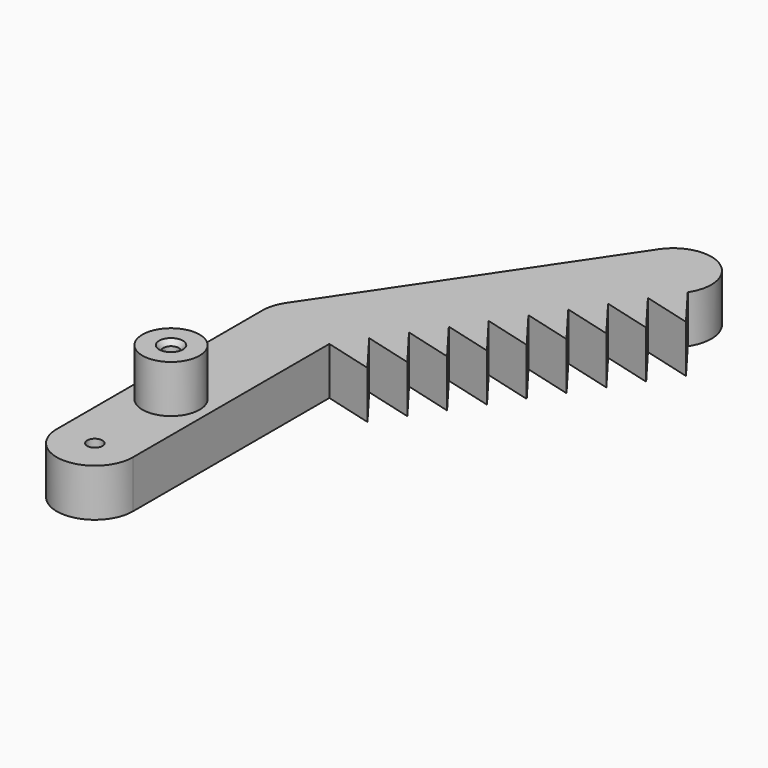
from build123d import *

# Parameters (mm, degrees)
F1_DEPTH       = 6.35
F2_R           = 3.81
F3_DEPTH       = 6.35
F5_D           = 2.032
F5_CSINK_D     = 3.175
F5_CSINK_ANGLE = 82
F6_D           = 2.032
F6_CSINK_D     = 3.175
F6_CSINK_ANGLE = 82


with BuildPart() as f1:
    # F0 (on Top) → F1 (new body)
    with BuildSketch(Plane.XY):
        with BuildLine():
            ThreePointArc((-5.08, 12.7), (-3.5921024484, 9.1078975516), (0, 7.62))
            Line((0, 7.62), (0, 12.7))
            Line((0, 12.7), (0, 17.78))
            ThreePointArc((0, 17.78), (-3.5921024484, 16.2921024484), (-5.08, 12.7))
        make_face()
        with BuildLine():
            Line((0, 12.7), (0, 7.62))
            ThreePointArc((0, 7.62), (3.5921024484, 9.1078975516), (5.08, 12.7))
            ThreePointArc((5.08, 12.7), (3.5921024484, 16.2921024484), (0, 17.78))
            Line((0, 17.78), (0, 12.7))
        make_face()
        with BuildLine():
            ThreePointArc((5.08, 12.7), (3.5921024484, 9.1078975516), (0, 7.62))
            ThreePointArc((0, 7.62), (-3.5921024484, 9.1078975516), (-5.08, 12.7))
            Line((-5.08, 12.7), (-5.08, 0))
            ThreePointArc((-5.08, 0), (0, -5.08), (5.08, 0))
            Line((5.08, 0), (5.08, 12.7))
        make_face()
        with BuildLine():
            ThreePointArc((0, 17.78), (3.5921024484, 16.2921024484), (5.08, 12.7))
            Line((5.08, 12.7), (5.08, 32.7368881382))
            Line((5.08, 32.7368881382), (4.2115108686, 31.4493000504))
            ThreePointArc((4.2115108686, 31.4493000504), (2.384915539, 29.8046262283), (0, 29.21))
            Line((0, 29.21), (0, 17.78))
        make_face()
        with BuildLine():
            Line((-5.08, 34.29), (-5.08, 12.7))
            ThreePointArc((-5.08, 12.7), (-3.5921024484, 16.2921024484), (0, 17.78))
            Line((0, 17.78), (0, 29.21))
            ThreePointArc((0, 29.21), (-3.5921024484, 30.6978975516), (-5.08, 34.29))
        make_face()
        with BuildLine():
            Line((5.08, 34.29), (5.08, 32.7368881382))
            Line((5.08, 32.7368881382), (7.5087984569, 36.3377299308))
            Line((7.5087984569, 36.3377299308), (9.9375969139, 39.9385717235))
            Line((9.9375969139, 39.9385717235), (12.3663953708, 43.5394135161))
            Line((12.3663953708, 43.5394135161), (14.7951938277, 47.1402553087))
            Line((14.7951938277, 47.1402553087), (15.5743106671, 48.2953435247))
            Line((15.5743106671, 48.2953435247), (17.2219166379, 50.7380198285))
            Line((17.2219166379, 50.7380198285), (19.6507150948, 54.3388616211))
            Line((19.6507150948, 54.3388616211), (22.0795135518, 57.9397034137))
            Line((22.0795135518, 57.9397034137), (24.5083120087, 61.5405452064))
            Line((24.5083120087, 61.5405452064), (26.9371104656, 65.141386999))
            ThreePointArc((26.9371104656, 65.141386999), (25.5662995467, 72.1935978172), (18.5140887285, 70.8227868983))
            Line((18.5140887285, 70.8227868983), (-4.2115108686, 37.1306999496))
            ThreePointArc((-4.2115108686, 37.1306999496), (-0.9693096965, 39.2766660919), (2.8406999496, 38.5015108686))
            ThreePointArc((2.8406999496, 38.5015108686), (4.4853737717, 36.674915539), (5.08, 34.29))
        make_face()
        with BuildLine():
            Line((4.2115108686, 31.4493000504), (5.08, 32.7368881382))
            Line((5.08, 32.7368881382), (5.08, 34.29))
            ThreePointArc((5.08, 34.29), (4.4853737717, 36.674915539), (2.8406999496, 38.5015108686))
            Line((2.8406999496, 38.5015108686), (0, 34.29))
            Line((0, 34.29), (0, 29.21))
            ThreePointArc((0, 29.21), (2.384915539, 29.8046262283), (4.2115108686, 31.4493000504))
        make_face()
        Polygon((7.5087984569, 36.3377299308), (5.08, 32.7368881382), (11.5576660786, 30.9871907177), align=None)
        with BuildLine():
            ThreePointArc((-4.2115108686, 37.1306999496), (-4.8580281603, 35.77524826), (-5.08, 34.29))
            ThreePointArc((-5.08, 34.29), (-3.5921024484, 30.6978975516), (0, 29.21))
            Line((0, 29.21), (0, 34.29))
            Line((0, 34.29), (2.8406999496, 38.5015108686))
            ThreePointArc((2.8406999496, 38.5015108686), (-0.9693096965, 39.2766660919), (-4.2115108686, 37.1306999496))
        make_face()
        Polygon((9.9375969139, 39.9385717235), (7.5087984569, 36.3377299308), (13.9886397713, 34.5961055653), align=None)
        Polygon((12.3663953708, 43.5394135161), (9.9375969139, 39.9385717235), (16.4107760502, 38.1919007837), align=None)
        Polygon((14.7951938277, 47.1402553087), (12.3663953708, 43.5394135161), (18.842780956, 41.8023465243), align=None)
        Polygon((30.9680322355, 59.8029524158), (26.9371104656, 65.141386999), (24.5083120087, 61.5405452064), align=None)
        Polygon((15.5743106671, 48.2953435247), (14.7951938277, 47.1402553087), (21.262849157, 45.3950715667), (17.2219166379, 50.7380198285), align=None)
        Polygon((28.5414772497, 56.2005973827), (24.5083120087, 61.5405452064), (22.0795135518, 57.9397034137), align=None)
        Polygon((26.1149222639, 52.5982423497), (22.0795135518, 57.9397034137), (19.6507150948, 54.3388616211), align=None)
        Polygon((19.6507150948, 54.3388616211), (17.2219166379, 50.7380198285), (23.6883672781, 48.9958873167), align=None)
    extrude(amount=F1_DEPTH)

    # F2 (on face) → F3 (join)
    with BuildSketch(Plane.XY.offset(6.35)):
        with Locations((0, 12.7)):
            Circle(F2_R)
    extrude(amount=F3_DEPTH)

    # F5 (through all)
    with Locations(Plane.XY.offset(12.7)):
        with Locations((0, 12.7)):
            CounterSinkHole(F5_D / 2, F5_CSINK_D / 2, counter_sink_angle=F5_CSINK_ANGLE)

    # F6 (through all)
    with Locations(Plane(origin=(0, 0, 0), x_dir=(1, 0, 0), z_dir=(0, 0, -1))):
        with Locations((0, 0)):
            CounterSinkHole(F6_D / 2, F6_CSINK_D / 2, counter_sink_angle=F6_CSINK_ANGLE)


solid = f1.part
